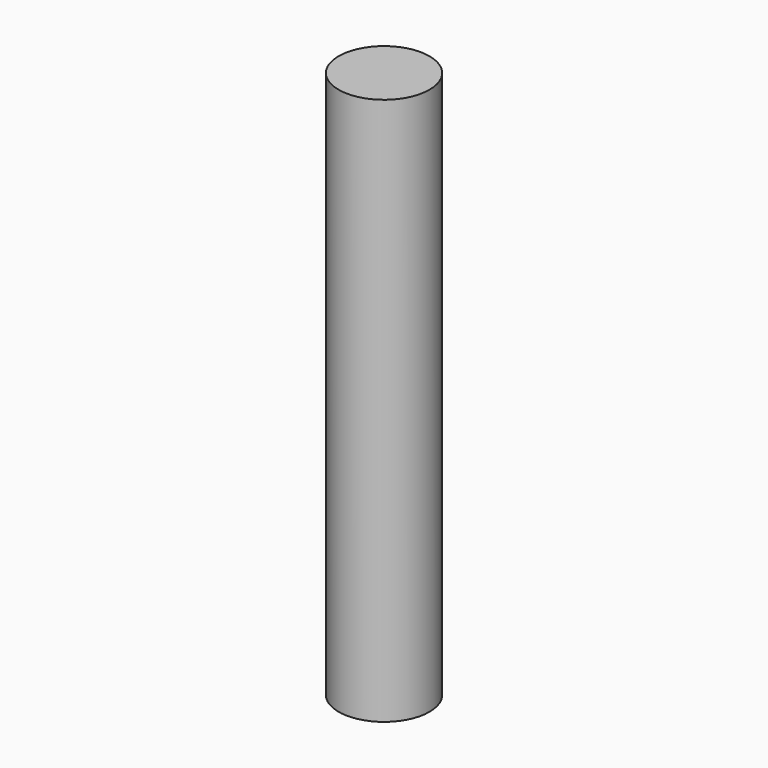
from build123d import *

# Parameters (mm, degrees)
CYLINDER_R     = 1.2446
CYLINDER_DEPTH = 15


with BuildPart() as part:
    # Cylinder → Cylinder (new body)
    with BuildSketch(Plane.XY.offset(-2.5)):
        Circle(CYLINDER_R)
    extrude(amount=CYLINDER_DEPTH)


solid = part.part
